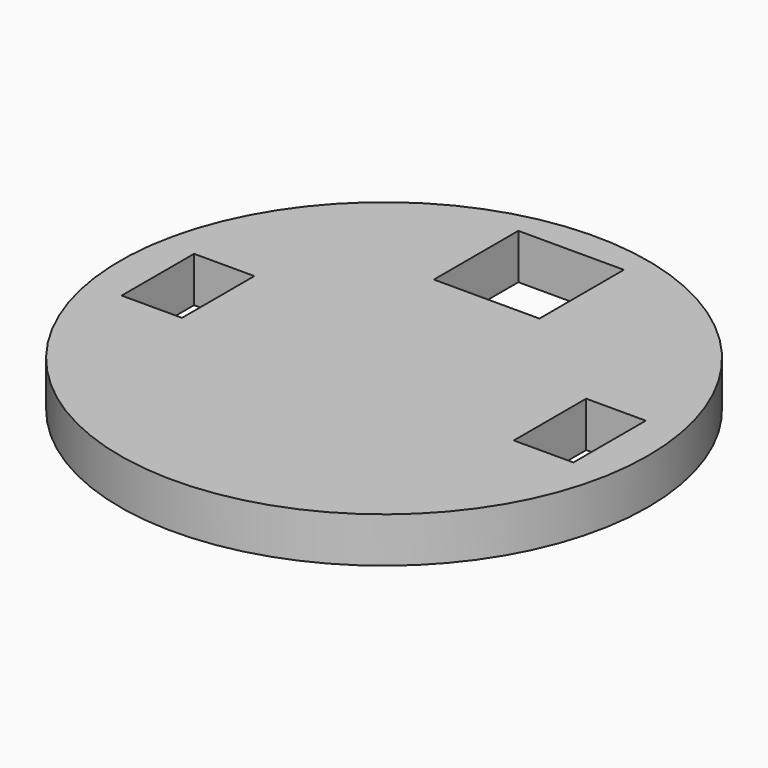
from build123d import *

# Parameters (mm, degrees)
F0_R     = 17.5
F0_W     = 4
F0_H     = 6
F0_W_2   = 3.951111
F0_W_3   = 7
F0_H_2   = 7
F1_DEPTH = 3


with BuildPart() as f1:
    # F0 (on Top) → F1 (new body)
    with BuildSketch(Plane.XY):
        Circle(F0_R)
        with Locations((-13, 0)):
            Rectangle(F0_W, F0_H, mode=Mode.SUBTRACT)
        with Locations((12.975555, 0)):
            Rectangle(F0_W_2, F0_H, mode=Mode.SUBTRACT)
        with Locations((0, 12)):
            Rectangle(F0_W_3, F0_H_2, mode=Mode.SUBTRACT)
    extrude(amount=F1_DEPTH)


solid = f1.part
